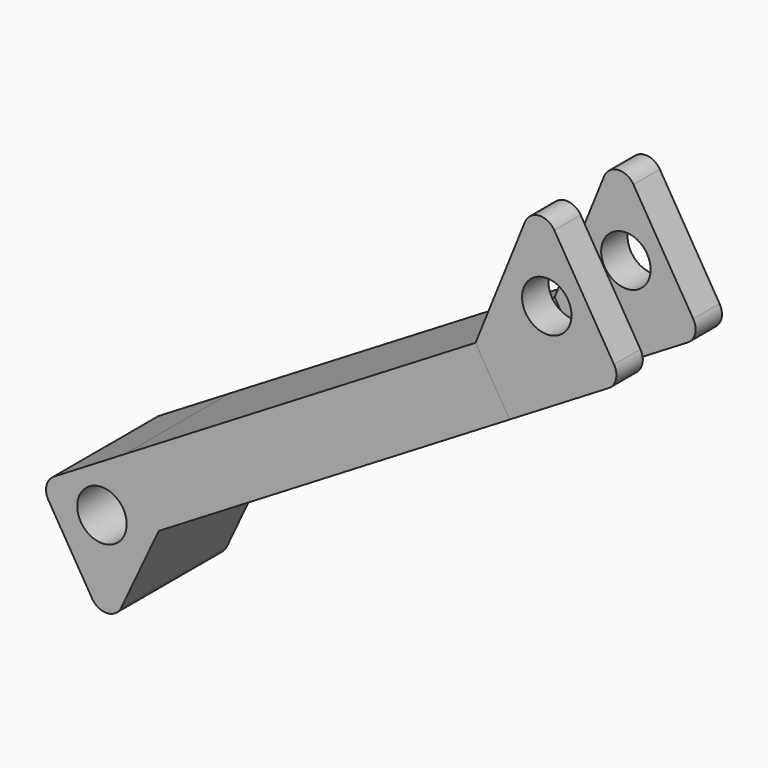
from build123d import *

# Parameters (mm, degrees)
F0_R     = 9.525
F1_DEPTH = 25.4
F2_DEPTH = 25.4
F3_DEPTH = 12.7
F4_DEPTH = 25.4


with BuildPart() as f1:
    # F0 (on Front) → F1 (new body, symmetric)
    with BuildSketch(Plane.XZ):
        with BuildLine():
            Line((80.201589, 106.611499), (61.193916, 59.501539))
            Line((61.193916, 59.501539), (74.335598, 37.765482))
            Line((74.335598, 37.765482), (112.373699, 60.763426))
            ThreePointArc((112.373699, 60.763426), (115.25385, 64.678155), (114.522292, 69.48286))
            Line((114.522292, 69.48286), (91.524349, 107.520961))
            ThreePointArc((91.524349, 107.520961), (85.58193, 110.565155), (80.201589, 106.611499))
        make_face()
        with Locations((88.617948, 80.829176)):
            Circle(F0_R, mode=Mode.SUBTRACT)
        with BuildLine():
            Line((80.201589, 106.611499), (61.193916, 59.501539))
            Line((61.193916, 59.501539), (74.335598, 37.765482))
            Line((74.335598, 37.765482), (112.373699, 60.763426))
            ThreePointArc((112.373699, 60.763426), (115.25385, 64.678155), (114.522292, 69.48286))
            Line((114.522292, 69.48286), (91.524349, 107.520961))
            ThreePointArc((91.524349, 107.520961), (85.58193, 110.565155), (80.201589, 106.611499))
        make_face()
        with Locations((88.617948, 80.829176)):
            Circle(F0_R, mode=Mode.SUBTRACT)
    extrude(amount=F1_DEPTH, both=True)

    # F0 (on Front) → F3 (cut, symmetric)
    with BuildSketch(Plane.XZ):
        with BuildLine():
            Line((80.201589, 106.611499), (61.193916, 59.501539))
            Line((61.193916, 59.501539), (74.335598, 37.765482))
            Line((74.335598, 37.765482), (112.373699, 60.763426))
            ThreePointArc((112.373699, 60.763426), (115.25385, 64.678155), (114.522292, 69.48286))
            Line((114.522292, 69.48286), (91.524349, 107.520961))
            ThreePointArc((91.524349, 107.520961), (85.58193, 110.565155), (80.201589, 106.611499))
        make_face()
        with Locations((88.617948, 80.829176)):
            Circle(F0_R, mode=Mode.SUBTRACT)
    extrude(amount=F3_DEPTH, both=True, mode=Mode.SUBTRACT)


with BuildPart() as f2:
    # F0 (on Front) → F2 (new body, symmetric)
    with BuildSketch(Plane.XZ):
        Polygon((74.335598, 37.765482), (61.193916, 59.501539), (-73.940142, -22.200898), (-60.79846, -43.936956), align=None)
    extrude(amount=F2_DEPTH, both=True)

    # F0 (on Front) → F4 (join, symmetric)
    with BuildSketch(Plane.XZ):
        with BuildLine():
            Line((-60.79846, -43.936956), (-73.940142, -22.200898))
            Line((-73.940142, -22.200898), (-101.110213, -38.628001))
            ThreePointArc((-101.110213, -38.628001), (-103.990364, -42.54273), (-103.258807, -47.347436))
            Line((-103.258807, -47.347436), (-86.399728, -75.231988))
            ThreePointArc((-86.399728, -75.231988), (-80.633124, -78.287851), (-75.217829, -74.645517))
            Line((-75.217829, -74.645517), (-60.79846, -43.936956))
        make_face()
        with Locations((-82.645503, -45.691744)):
            Circle(F0_R, mode=Mode.SUBTRACT)
    extrude(amount=F4_DEPTH, both=True)


solid = Compound([f1.part, f2.part])
